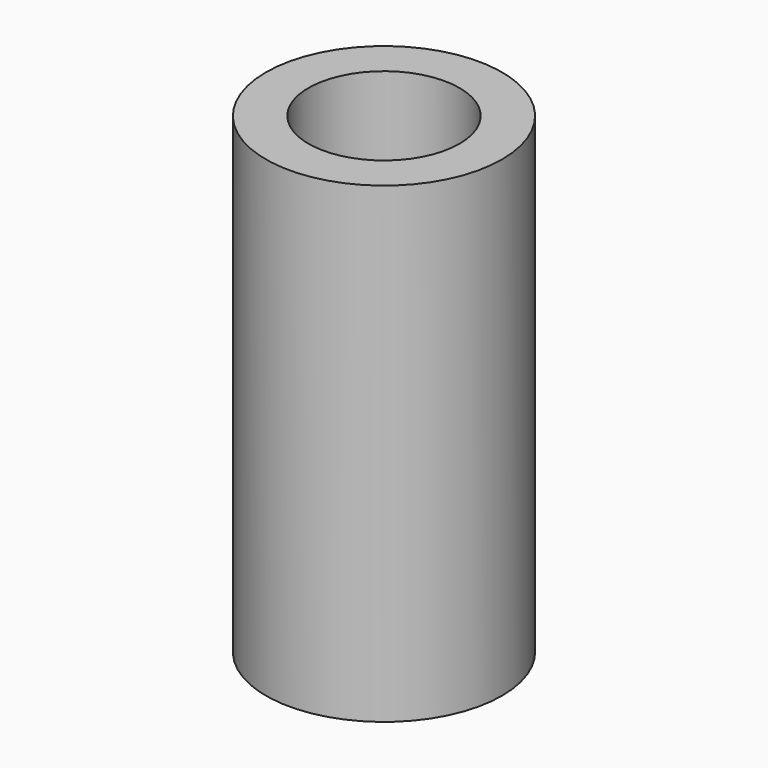
from build123d import *

# Parameters (mm, degrees)
SKETCH001_R  = 1.6
PAD001_DEPTH = 10
SKETCH_R     = 2.5
PAD_DEPTH    = 10


with BuildPart() as pad001:
    # Sketch001 → Pad001 (new body)
    with BuildSketch(Plane.XY.offset(10)):
        Circle(SKETCH001_R)
    extrude(amount=-PAD001_DEPTH)


with BuildPart() as cut:
    # Sketch → Pad (new body)
    with BuildSketch(Plane.XY):
        Circle(SKETCH_R)
    extrude(amount=PAD_DEPTH)

    # Cut: cut Pad001
    add(pad001.part, mode=Mode.SUBTRACT)


solid = cut.part
